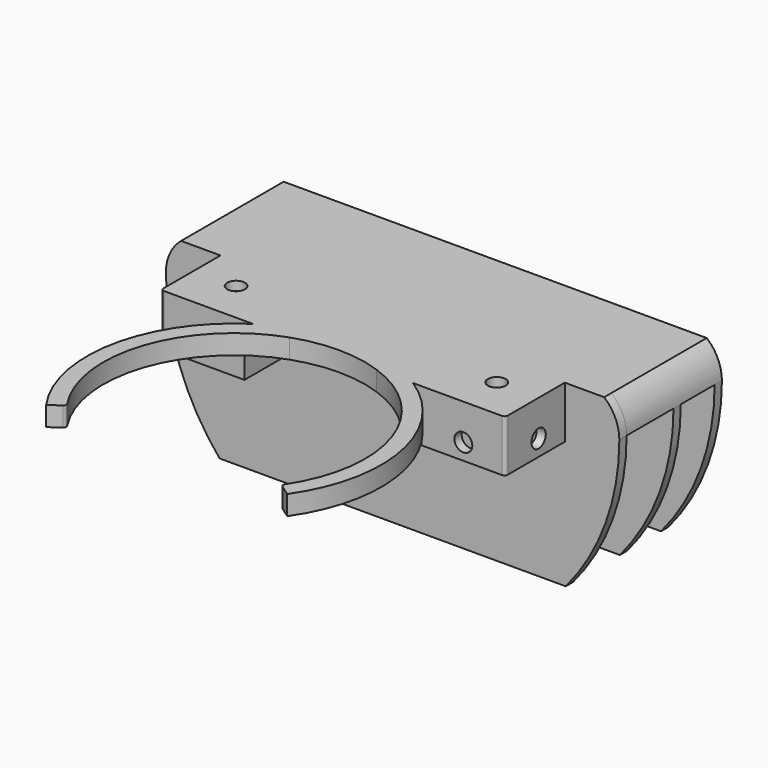
from build123d import *

# Parameters (mm, degrees)
SKETCH047_W     = 105.8
SKETCH047_H     = 25.7
SKETCH047_W_2   = 20.1
SKETCH047_H_2   = 20.1
PAD026_DEPTH    = 6
SKETCH043_R     = 45.225
SKETCH043_R_2   = 40.225
PAD027_DEPTH    = 6
POCKET028_DEPTH = 6
POCKET026_DEPTH = 6
FILLET011_R     = 1
SKETCH049_W     = 25.7
SKETCH049_H     = 25.7
SKETCH049_W_2   = 20.1
SKETCH049_H_2   = 20.1
PAD023_DEPTH    = 10
SKETCH045_R     = 2.75
POCKET031_DEPTH = 105.8
SKETCH042_R     = 2.75
POCKET029_DEPTH = 2.8
FILLET010_R     = 1
PAD024_DEPTH    = 36.6
PAD025_DEPTH    = 2.8
SKETCH048_W     = 139.326154
SKETCH048_H     = 62.3
POCKET027_DEPTH = 61
SKETCH044_W     = 139.326154
SKETCH044_H     = 18
SKETCH044_H_2   = 13
POCKET030_DEPTH = 45
SKETCH052_W     = 20.1
SKETCH052_H     = 20.1
SKETCH052_R     = 2.75
PAD029_DEPTH    = 2.8


with BuildPart() as part:
    # Sketch047 → Pad026 (new body)
    with BuildSketch(Plane.XY):
        with Locations((52.9, 12.85)):
            Rectangle(SKETCH047_W, SKETCH047_H)
        with Locations((12.85, 12.85)):
            Rectangle(SKETCH047_W_2, SKETCH047_H_2, mode=Mode.SUBTRACT)
        with Locations((92.95, 12.85)):
            Rectangle(SKETCH047_W_2, SKETCH047_H_2, mode=Mode.SUBTRACT)
    extrude(amount=PAD026_DEPTH)

    # Sketch043 → Pad027 (join)
    with BuildSketch(Plane.XY):
        with Locations((52.9, -37.955)):
            Circle(SKETCH043_R)
        with Locations((52.9, -37.955)):
            Circle(SKETCH043_R_2, mode=Mode.SUBTRACT)
    extrude(amount=PAD027_DEPTH)

    # Pad027 Face25 → Pocket028 (cut)
    with BuildSketch(Plane(origin=(52.9, 0.910232, 6), x_dir=(0, 1, 0), z_dir=(0, 0, 1))):
        with BuildLine():
            ThreePointArc((-0.910232, -13.321734), (1.359768, 0), (-0.910232, 13.321734))
            Line((-0.910232, 13.321734), (-0.910232, -13.321734))
        make_face()
    extrude(amount=-POCKET028_DEPTH, mode=Mode.SUBTRACT)

    # Sketch050 → Pocket026 (cut)
    with BuildSketch(Plane.XY):
        with BuildLine():
            Line((52.9, -37.955), (94.041911, -66.762877))
            ThreePointArc((11.758089, -66.762877), (52.9, -88.18), (94.041911, -66.762877))
            Line((52.9, -37.955), (11.758089, -66.762877))
        make_face()
    extrude(amount=POCKET026_DEPTH, mode=Mode.SUBTRACT)

    # Fillet011
    fillet011_edges = [part.edges().sort_by_distance(p)[0] for p in [
        (19.949609, -61.027112, 3),
        (85.850391, -61.027112, 3),
    ]]
    fillet(fillet011_edges, radius=FILLET011_R)

    # Sketch049 (on Face11 of Fillet011) → Pad023 (join)
    with BuildSketch(Plane(origin=(0, 0, 0), x_dir=(1, 0, 0), z_dir=(0, 0, -1))):
        with Locations((12.85, -12.85)):
            Rectangle(SKETCH049_W, SKETCH049_H)
        with Locations((12.85, -12.85)):
            Rectangle(SKETCH049_W_2, SKETCH049_H_2, mode=Mode.SUBTRACT)
        with Locations((92.95, -12.85)):
            Rectangle(SKETCH049_W, SKETCH049_H)
        with Locations((92.95, -12.85)):
            Rectangle(SKETCH049_W_2, SKETCH049_H_2, mode=Mode.SUBTRACT)
    extrude(amount=PAD023_DEPTH)

    # Sketch045 (on Face27 of Pad023) → Pocket031 (cut)
    with BuildSketch(Plane(origin=(0, 0, 0), x_dir=(0, -1, 0), z_dir=(-1, 0, 0))):
        with Locations((-12.85, -5)):
            Circle(SKETCH045_R)
    extrude(amount=-POCKET031_DEPTH, mode=Mode.SUBTRACT)

    # Sketch042 (on Face13 of Pocket031) → Pocket029 (cut)
    with BuildSketch(Plane.XZ):
        with Locations((12.85, -5)):
            Circle(SKETCH042_R)
        with Locations((92.95, -5)):
            Circle(SKETCH042_R)
    extrude(amount=-POCKET029_DEPTH, mode=Mode.SUBTRACT)

    # Fillet010
    fillet010_edges = [part.edges().sort_by_distance(p)[0] for p in [
        (103, 12.85, -10),
        (92.95, 2.8, -10),
        (82.9, 12.85, -10),
        (22.9, 12.85, -10),
        (12.85, 2.8, -10),
        (2.8, 12.85, -10),
        (0, 0, -5),
        (0, 0, 3),
        (105.8, 0, -5),
        (105.8, 0, 3),
    ]]
    fillet(fillet010_edges, radius=FILLET010_R)

    # Sketch046 (on Face12 of Fillet010) → Pad024 (join)
    with BuildSketch(Plane(origin=(0, 25.7, 0), x_dir=(-1, 0, 0), z_dir=(0, 1, 0))):
        with BuildLine():
            Line((12.1, 6), (-117.9, 6))
            ThreePointArc((-117.9, 6), (-121.340012, 1.51689), (-122.563077, -4))
            ThreePointArc((-122.563077, -4), (-52.9, -73.663077), (16.763077, -4))
            ThreePointArc((16.763077, -4), (15.540012, 1.51689), (12.1, 6))
        make_face()
    extrude(amount=PAD024_DEPTH)

    # Pad024 Face4 → Pad025 (add)
    with BuildSketch(Plane(origin=(52.9, 25.7, -32.391454), x_dir=(-1, 0, 0), z_dir=(0, -1, 0))):
        with BuildLine():
            ThreePointArc((65, -38.391454), (68.440012, -33.908343), (69.663077, -28.391454))
            ThreePointArc((69.663077, -28.391454), (0, 41.271623), (-69.663077, -28.391454))
            ThreePointArc((-69.663077, -28.391454), (-68.440012, -33.908343), (-65, -38.391454))
            Line((-65, -38.391454), (-52.9, -38.391454))
            Line((-52.9, -38.391454), (-52.9, -32.391454))
            Line((-52.9, -32.391454), (-52.9, -22.391454))
            Line((-52.9, -22.391454), (-27.2, -22.391454))
            Line((-27.2, -22.391454), (-27.2, -32.391454))
            Line((-27.2, -32.391454), (27.2, -32.391454))
            Line((27.2, -32.391454), (27.2, -22.391454))
            Line((27.2, -22.391454), (52.9, -22.391454))
            Line((52.9, -22.391454), (52.9, -32.391454))
            Line((52.9, -32.391454), (52.9, -38.391454))
            Line((52.9, -38.391454), (65, -38.391454))
        make_face()
    extrude(amount=PAD025_DEPTH)

    # Sketch048 → Pocket027 (cut)
    with BuildSketch(Plane.XY.offset(-49)):
        with Locations((52.9, 31.15)):
            Rectangle(SKETCH048_W, SKETCH048_H)
    extrude(amount=-POCKET027_DEPTH, mode=Mode.SUBTRACT)

    # Sketch044 (on Face28 of Pocket027) → Pocket030 (cut)
    with BuildSketch(Plane(origin=(0, 0, -49), x_dir=(1, 0, 0), z_dir=(0, 0, -1))):
        with Locations((52.9, -34.7)):
            Rectangle(SKETCH044_W, SKETCH044_H)
        with Locations((52.9, -53)):
            Rectangle(SKETCH044_W, SKETCH044_H_2)
    extrude(amount=-POCKET030_DEPTH, mode=Mode.SUBTRACT)

    # Sketch052 (on Face5 of Pocket030) → Pad029 (join)
    with BuildSketch(Plane.XY.offset(6)):
        with Locations((12.85, 12.85)):
            Rectangle(SKETCH052_W, SKETCH052_H)
        with Locations((12.85, 12.85)):
            Circle(SKETCH052_R, mode=Mode.SUBTRACT)
        with Locations((92.95, 12.85)):
            Rectangle(SKETCH052_W, SKETCH052_H)
        with Locations((92.95, 12.85)):
            Circle(SKETCH052_R, mode=Mode.SUBTRACT)
    extrude(amount=-PAD029_DEPTH)


with BuildPart() as part_1:
    # Body007 placement: moved
    add(part.part.moved(Location((800, 0, 40))))


solid = part_1.part
